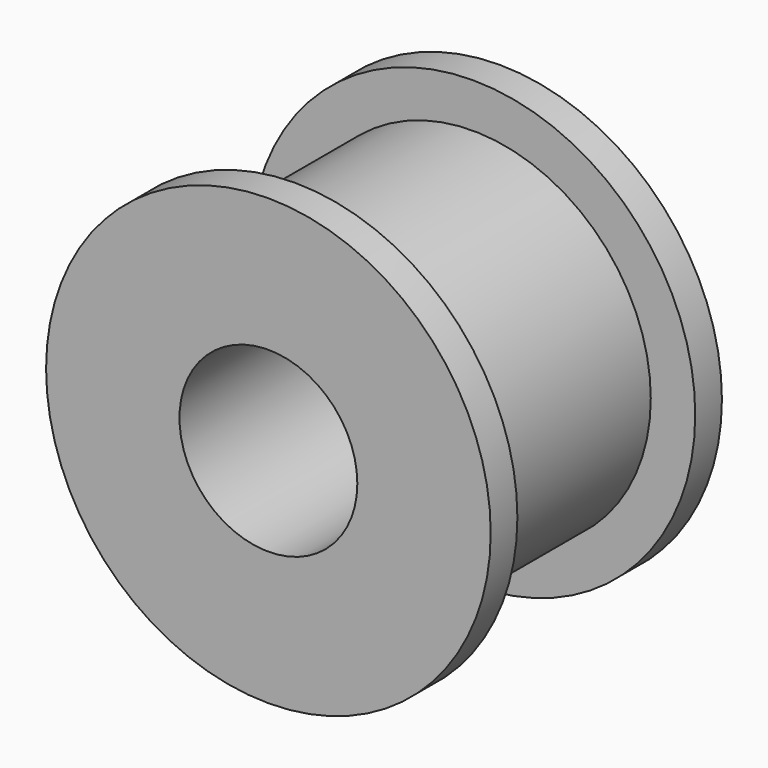
from build123d import *

# Parameters (mm, degrees)
F0_R     = 10
F1_DEPTH = 1.5
F2_R     = 8
F3_DEPTH = 10
F4_R     = 10
F5_DEPTH = 1.5
F6_R     = 4
F7_DEPTH = 25


with BuildPart() as f1:
    # F0 (on Front) → F1 (new body)
    with BuildSketch(Plane.XZ):
        Circle(F0_R)
    extrude(amount=F1_DEPTH)

    # F2 (on face) → F3 (join)
    with BuildSketch(Plane.XZ.offset(1.5)):
        Circle(F2_R)
    extrude(amount=F3_DEPTH)

    # F4 (on face) → F5 (join)
    with BuildSketch(Plane.XZ.offset(11.5)):
        Circle(F4_R)
    extrude(amount=F5_DEPTH)

    # F6 (on face) → F7 (cut)
    with BuildSketch(Plane.XZ.offset(13)):
        Circle(F6_R)
    extrude(amount=-F7_DEPTH, mode=Mode.SUBTRACT)


solid = f1.part
